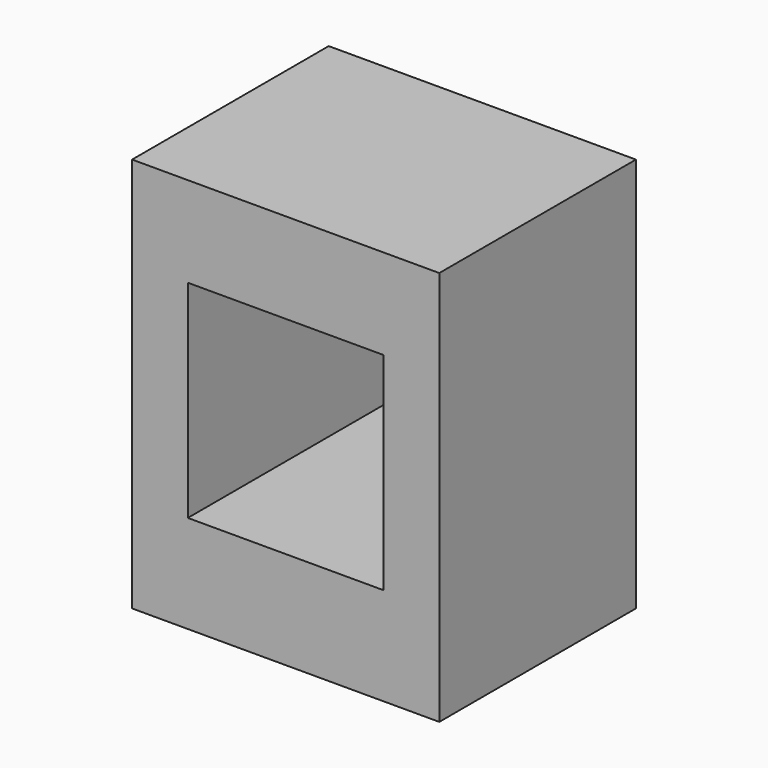
from build123d import *

# Parameters (mm, degrees)
F1_W     = 35
F1_H     = 28
F2_DEPTH = 45.020983
F3_W     = 22.3
F3_H     = 23.590589
F4_DEPTH = 28.001


with BuildPart() as f2:
    # F1 (on face) → F2 (new body)
    with BuildSketch(Plane.XY):
        with Locations((-5.262755, -1.438227)):
            Rectangle(F1_W, F1_H)
    extrude(amount=F2_DEPTH)

    # F3 (on face) → F4 (cut, through all)
    with BuildSketch(Plane.XZ.offset(15.438227)):
        with Locations((-5.262755, 22.939628)):
            Rectangle(F3_W, F3_H)
    extrude(amount=-F4_DEPTH, mode=Mode.SUBTRACT)


solid = f2.part
